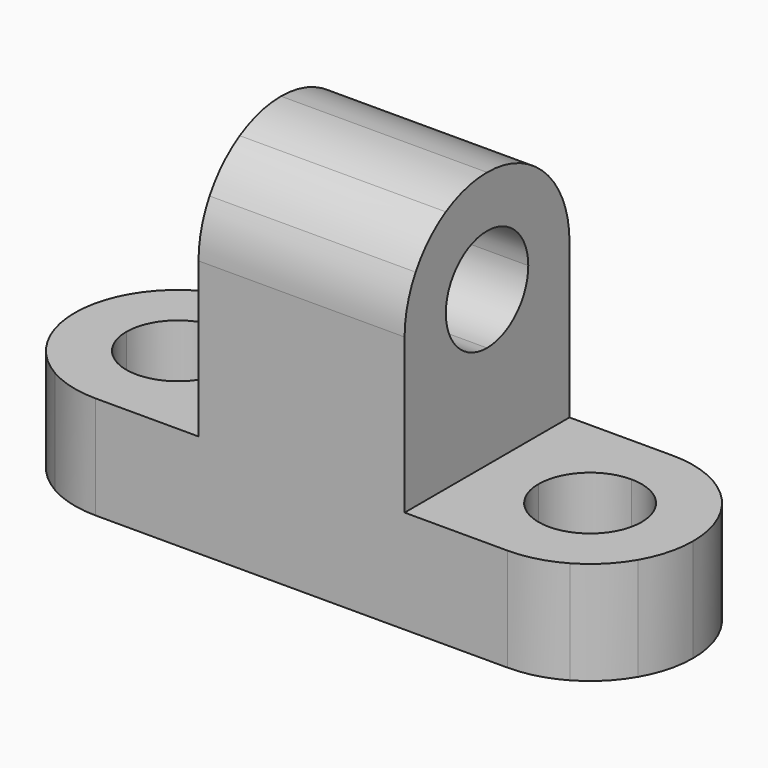
from build123d import *

# Parameters (mm, degrees)
F0_W     = 76.2
F0_H     = 44.45
F1_DEPTH = 25.4
F2_W     = 25.4
F2_H     = 31.75
F3_DEPTH = 25.401
F5_DEPTH = 50.801
F7_DEPTH = 12.701
F9_DEPTH = 12.701


with BuildPart() as f1:
    # F0 (on Front) → F1 (new body)
    with BuildSketch(Plane.XZ):
        with Locations((-3.0154539272, 4.1499344332)):
            Rectangle(F0_W, F0_H)
    extrude(amount=F1_DEPTH)

    # F2 (on face) → F3 (cut, through all)
    with BuildSketch(Plane.XZ.offset(25.4)):
        with Locations((-28.4154539272, 10.4999344332)):
            Rectangle(F2_W, F2_H)
        with Locations((22.3845460728, 10.4999344332)):
            Rectangle(F2_W, F2_H)
    extrude(amount=-F3_DEPTH, mode=Mode.SUBTRACT)

    # F4 (on face) → F5 (cut, through all)
    with BuildSketch(Plane.YZ.offset(9.6845460728)):
        with BuildLine():
            ThreePointArc((-12.7, 20.0249344332), (-17.1901280646, 18.1650624897), (-19.05, 13.6749344217))
            Line((-19.05, 13.6749344332), (-6.35, 13.6749344332))
            ThreePointArc((-6.35, 13.6749344332), (-8.2098719395, 18.1650624937), (-12.7, 20.0249344332))
        make_face()
        with BuildLine():
            Line((-6.35, 13.6749344332), (-19.05, 13.6749344332))
            ThreePointArc((-19.05, 13.6749344217), (-17.1901280565, 9.1848063686), (-12.7, 7.3249344332))
            ThreePointArc((-12.7, 7.3249344332), (-8.2098719395, 9.1848063726), (-6.35, 13.6749344332))
        make_face()
        with BuildLine():
            Line((-6.35, 26.3749344332), (-6.35, 24.6734570612))
            ThreePointArc((-6.35, 24.6734570612), (-3.7197438789, 22.6551905542), (-1.7014773719, 20.0249344332))
            Line((-1.7014773719, 20.0249344332), (0, 20.0249344332))
            Line((0, 20.0249344332), (0, 26.3749344332))
            Line((0, 26.3749344332), (-6.35, 26.3749344332))
        make_face()
        with BuildLine():
            Line((-25.4, 26.3749344332), (-25.4, 20.0249344332))
            Line((-25.4, 20.0249344332), (-23.6985226281, 20.0249344332))
            ThreePointArc((-23.6985226281, 20.0249344332), (-21.6802561211, 22.6551905542), (-19.05, 24.6734570612))
            Line((-19.05, 24.6734570612), (-19.05, 26.3749344332))
            Line((-19.05, 26.3749344332), (-25.4, 26.3749344332))
        make_face()
        with BuildLine():
            Line((-19.05, 26.3749344332), (-19.05, 24.6734570612))
            ThreePointArc((-19.05, 24.6734570612), (-15.9870018728, 25.942192427), (-12.7, 26.3749344332))
            Line((-12.7, 26.3749344332), (-19.05, 26.3749344332))
        make_face()
        with BuildLine():
            Line((-6.35, 26.3749344332), (-12.7, 26.3749344332))
            ThreePointArc((-12.7, 26.3749344332), (-9.4129981272, 25.942192427), (-6.35, 24.6734570612))
            Line((-6.35, 24.6734570612), (-6.35, 26.3749344332))
        make_face()
        with BuildLine():
            Line((-23.6985226281, 20.0249344332), (-25.4, 20.0249344332))
            Line((-25.4, 20.0249344332), (-25.4, 13.6749344332))
            ThreePointArc((-25.4, 13.6749344332), (-24.9672579939, 16.961936306), (-23.6985226281, 20.0249344332))
        make_face()
        with BuildLine():
            ThreePointArc((-1.7014773719, 20.0249344332), (-0.4327420061, 16.961936306), (0, 13.6749344332))
            Line((0, 13.6749344332), (0, 20.0249344332))
            Line((0, 20.0249344332), (-1.7014773719, 20.0249344332))
        make_face()
    extrude(amount=-F5_DEPTH, mode=Mode.SUBTRACT)

    # F6 (on face) → F7 (cut, through all)
    with BuildSketch(Plane.XY.offset(-5.3750655668)):
        with BuildLine():
            ThreePointArc((-22.0654539272, -12.7), (-23.9253258667, -8.2098719395), (-28.4154539272, -6.35))
            Line((-28.4154539272, -6.35), (-28.4154539272, -19.05))
            ThreePointArc((-28.4154539272, -19.05), (-23.9253258667, -17.1901280605), (-22.0654539272, -12.7))
        make_face()
        with BuildLine():
            Line((-28.4154539272, -19.05), (-28.4154539272, -6.35))
            ThreePointArc((-28.4154539272, -6.35), (-32.9055819878, -8.2098719395), (-34.7654539272, -12.7))
            ThreePointArc((-34.7654539272, -12.7), (-32.9055819878, -17.1901280605), (-28.4154539272, -19.05))
        make_face()
        with BuildLine():
            Line((-34.7654539272, -1.7014773719), (-34.7654539272, 0))
            Line((-34.7654539272, 0), (-41.1154539272, 0))
            Line((-41.1154539272, 0), (-41.1154539272, -6.35))
            Line((-41.1154539272, -6.35), (-39.4139765553, -6.35))
            ThreePointArc((-39.4139765553, -6.35), (-37.3957100483, -3.7197438789), (-34.7654539272, -1.7014773719))
        make_face()
        with BuildLine():
            ThreePointArc((-41.1154539272, -12.7), (-40.6827119211, -9.4129981272), (-39.4139765553, -6.35))
            Line((-39.4139765553, -6.35), (-41.1154539272, -6.35))
            Line((-41.1154539272, -6.35), (-41.1154539272, -12.7))
        make_face()
        with BuildLine():
            Line((-28.4154539272, 0), (-34.7654539272, 0))
            Line((-34.7654539272, 0), (-34.7654539272, -1.7014773719))
            ThreePointArc((-34.7654539272, -1.7014773719), (-31.7024558, -0.4327420061), (-28.4154539272, 0))
        make_face()
        with BuildLine():
            ThreePointArc((-39.4139765553, -19.05), (-40.6827119211, -15.9870018728), (-41.1154539272, -12.7))
            Line((-41.1154539272, -12.7), (-41.1154539272, -19.05))
            Line((-41.1154539272, -19.05), (-39.4139765553, -19.05))
        make_face()
        with BuildLine():
            ThreePointArc((-34.7654539272, -23.6985226281), (-37.3957100483, -21.6802561211), (-39.4139765553, -19.05))
            Line((-39.4139765553, -19.05), (-41.1154539272, -19.05))
            Line((-41.1154539272, -19.05), (-41.1154539272, -25.4))
            Line((-41.1154539272, -25.4), (-34.7654539272, -25.4))
            Line((-34.7654539272, -25.4), (-34.7654539272, -23.6985226281))
        make_face()
        with BuildLine():
            Line((-34.7654539272, -25.4), (-28.4154539272, -25.4))
            ThreePointArc((-28.4154539272, -25.4), (-31.7024558, -24.9672579939), (-34.7654539272, -23.6985226281))
            Line((-34.7654539272, -23.6985226281), (-34.7654539272, -25.4))
        make_face()
    extrude(amount=-F7_DEPTH, mode=Mode.SUBTRACT)

    # F8 (on face) → F9 (cut, through all)
    with BuildSketch(Plane.XY.offset(-5.3750655668)):
        with BuildLine():
            ThreePointArc((28.7345460728, -12.7), (26.8746741333, -8.2098719395), (22.3845460728, -6.35))
            Line((22.3845460728, -6.35), (22.3845460728, -19.05))
            ThreePointArc((22.3845460728, -19.05), (26.8746741333, -17.1901280605), (28.7345460728, -12.7))
        make_face()
        with BuildLine():
            ThreePointArc((22.3845460728, -6.35), (17.8944180122, -8.2098719395), (16.0345460728, -12.7))
            ThreePointArc((16.0345460728, -12.7), (17.8944180122, -17.1901280605), (22.3845460728, -19.05))
            Line((22.3845460728, -19.05), (22.3845460728, -6.35))
        make_face()
        with BuildLine():
            ThreePointArc((28.7345460728, -23.6985226281), (25.6715479456, -24.9672579939), (22.3845460728, -25.4))
            Line((22.3845460728, -25.4), (28.7345460728, -25.4))
            Line((28.7345460728, -25.4), (28.7345460728, -23.6985226281))
        make_face()
        with BuildLine():
            ThreePointArc((33.3830687008, -19.05), (31.3648021939, -21.6802561211), (28.7345460728, -23.6985226281))
            Line((28.7345460728, -23.6985226281), (28.7345460728, -25.4))
            Line((28.7345460728, -25.4), (35.0845460728, -25.4))
            Line((35.0845460728, -25.4), (35.0845460728, -19.05))
            Line((35.0845460728, -19.05), (33.3830687008, -19.05))
        make_face()
        with BuildLine():
            Line((35.0845460728, -19.05), (35.0845460728, -12.7))
            ThreePointArc((35.0845460728, -12.7), (34.6518040667, -15.9870018728), (33.3830687008, -19.05))
            Line((33.3830687008, -19.05), (35.0845460728, -19.05))
        make_face()
        with BuildLine():
            Line((35.0845460728, -6.35), (33.3830687008, -6.35))
            ThreePointArc((33.3830687008, -6.35), (34.6518040667, -9.4129981272), (35.0845460728, -12.7))
            Line((35.0845460728, -12.7), (35.0845460728, -6.35))
        make_face()
        with BuildLine():
            Line((28.7345460728, 0), (28.7345460728, -1.7014773719))
            ThreePointArc((28.7345460728, -1.7014773719), (31.3648021939, -3.7197438789), (33.3830687008, -6.35))
            Line((33.3830687008, -6.35), (35.0845460728, -6.35))
            Line((35.0845460728, -6.35), (35.0845460728, 0))
            Line((35.0845460728, 0), (28.7345460728, 0))
        make_face()
        with BuildLine():
            Line((28.7345460728, 0), (22.3845460728, 0))
            ThreePointArc((22.3845460728, 0), (25.6715479456, -0.4327420061), (28.7345460728, -1.7014773719))
            Line((28.7345460728, -1.7014773719), (28.7345460728, 0))
        make_face()
    extrude(amount=-F9_DEPTH, mode=Mode.SUBTRACT)


solid = f1.part
